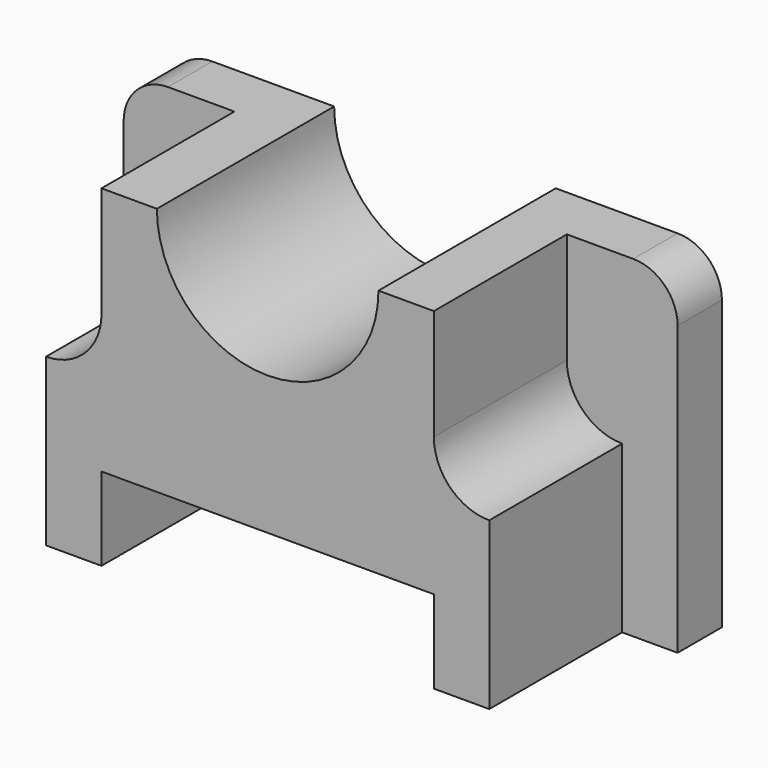
from build123d import *

# Parameters (mm, degrees)
F1_DEPTH = 6.35
F2_R     = 5.08
F4_DEPTH = 19.05
F5_DEPTH = 25.4
F6_DEPTH = 25.4
F7_DEPTH = 72.5614
F8_DEPTH = 61.46767


with BuildPart() as f1:
    # F0 (on Front) → F1 (new body)
    with BuildSketch(Plane.XZ):
        with BuildLine():
            Line((-25.4, 33.425663), (-44.45, 33.425663))
            Line((-44.45, 33.425663), (-44.45, -4.674337))
            Line((-44.45, -4.674337), (19.05, -4.674337))
            Line((19.05, -4.674337), (19.05, 33.425663))
            Line((19.05, 33.425663), (0, 33.425663))
            ThreePointArc((0, 33.425663), (-12.7, 20.725663), (-25.4, 33.425663))
        make_face()
        with BuildLine():
            Line((0, 33.425663), (-25.4, 33.425663))
            ThreePointArc((-25.4, 33.425663), (-12.7, 20.725663), (0, 33.425663))
        make_face()
    extrude(amount=F1_DEPTH)

    # F2
    f2_edges = [f1.edges().sort_by_distance(p)[0] for p in [
        (-44.45, -3.175, 33.425663),
        (19.05, -3.175, 33.425663),
    ]]
    fillet(f2_edges, radius=F2_R)

    # F3 (on face) → F4 (join)
    with BuildSketch(Plane.XZ.offset(6.35)):
        with BuildLine():
            Line((-38.1, 14.375663), (-38.1, -4.674337))
            Line((-38.1, -4.674337), (-31.75, -4.674337))
            Line((-31.75, -4.674337), (-31.75, 4.850663))
            Line((-31.75, 4.850663), (6.35, 4.850663))
            Line((6.35, 4.850663), (6.35, -4.674337))
            Line((6.35, -4.674337), (12.7, -4.674337))
            Line((12.7, -4.674337), (12.7, 14.375663))
            ThreePointArc((12.7, 14.375663), (8.209872, 16.235535), (6.35, 20.725663))
            Line((6.35, 20.725663), (6.35, 33.425663))
            Line((6.35, 33.425663), (-31.75, 33.425663))
            Line((-31.75, 33.425663), (-31.75, 20.725663))
            ThreePointArc((-31.75, 20.725663), (-33.609872, 16.235535), (-38.1, 14.375663))
        make_face()
        with BuildLine():
            Line((-38.1, 33.425663), (-38.1, 14.375663))
            ThreePointArc((-38.1, 14.375663), (-33.609872, 16.235535), (-31.75, 20.725663))
            Line((-31.75, 20.725663), (-31.75, 33.425663))
            Line((-31.75, 33.425663), (-38.1, 33.425663))
        make_face()
        with BuildLine():
            Line((12.7, 33.425663), (6.35, 33.425663))
            Line((6.35, 33.425663), (6.35, 20.725663))
            ThreePointArc((6.35, 20.725663), (8.209872, 16.235535), (12.7, 14.375663))
            Line((12.7, 14.375663), (12.7, 33.425663))
        make_face()
    extrude(amount=F4_DEPTH)

    # F0 (on Front) → F5 (cut)
    with BuildSketch(Plane.XZ):
        with BuildLine():
            Line((0, 33.425663), (-25.4, 33.425663))
            ThreePointArc((-25.4, 33.425663), (-12.7, 20.725663), (0, 33.425663))
        make_face()
    extrude(amount=-F5_DEPTH, mode=Mode.SUBTRACT)

    # F0 (on Front) → F6 (cut)
    with BuildSketch(Plane.XZ):
        with BuildLine():
            Line((0, 33.425663), (-25.4, 33.425663))
            ThreePointArc((-25.4, 33.425663), (-12.7, 20.725663), (0, 33.425663))
        make_face()
    extrude(amount=F6_DEPTH, mode=Mode.SUBTRACT)

    # F3 (on face) + F4_face (on face) → F7 (cut)
    with BuildSketch(Plane.XZ.offset(6.35)):
        with BuildLine():
            Line((-38.1, 33.425663), (-38.1, 14.375663))
            ThreePointArc((-38.1, 14.375663), (-33.609872, 16.235535), (-31.75, 20.725663))
            Line((-31.75, 20.725663), (-31.75, 33.425663))
            Line((-31.75, 33.425663), (-38.1, 33.425663))
        make_face()
    with BuildSketch(Plane(origin=(-12.7, -25.4, 15.682621), x_dir=(1, 0, 0), z_dir=(0, -1, 0))):
        with BuildLine():
            Line((-25.4, 17.743042), (-25.4, -20.356958))
            Line((-25.4, -20.356958), (-19.05, -20.356958))
            Line((-19.05, -20.356958), (-19.05, -10.831958))
            Line((-19.05, -10.831958), (19.05, -10.831958))
            Line((19.05, -10.831958), (19.05, -20.356958))
            Line((19.05, -20.356958), (25.4, -20.356958))
            Line((25.4, -20.356958), (25.4, 17.743042))
            Line((25.4, 17.743042), (12.7, 17.743042))
            ThreePointArc((12.7, 17.743042), (0, 5.043042), (-12.7, 17.743042))
            Line((-12.7, 17.743042), (-25.4, 17.743042))
        make_face()
    extrude(amount=F7_DEPTH, mode=Mode.SUBTRACT)

    # F3 (on face) → F8 (cut)
    with BuildSketch(Plane.XZ.offset(6.35)):
        with BuildLine():
            Line((12.7, 33.425663), (6.35, 33.425663))
            Line((6.35, 33.425663), (6.35, 20.725663))
            ThreePointArc((6.35, 20.725663), (8.209872, 16.235535), (12.7, 14.375663))
            Line((12.7, 14.375663), (12.7, 33.425663))
        make_face()
    extrude(amount=F8_DEPTH, mode=Mode.SUBTRACT)


solid = f1.part
